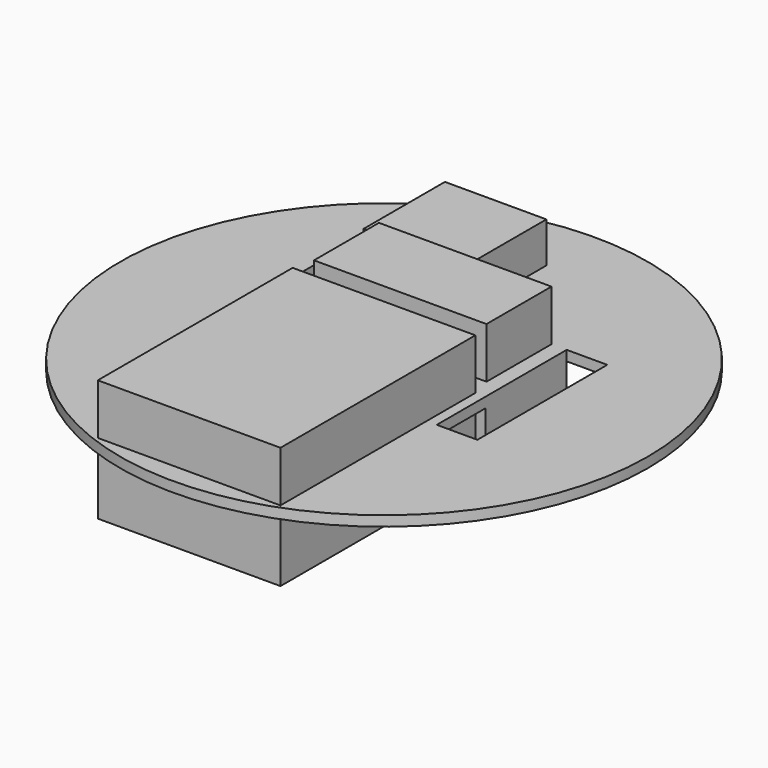
from build123d import *

# Parameters (mm, degrees)
F0_R      = 82.55
F2_DEPTH  = 3.175
F1_W      = 57.15
F1_H      = 76.2
F3_DEPTH  = 15.875
F4_DEPTH  = 22.225
F5_DEPTH  = 12.7
F6_DEPTH  = 12.7
F7_DEPTH  = 15.875
F9_DEPTH  = 12.7
F10_DEPTH = 25.4


with BuildPart() as f2:
    # F0 (on Top) → F2 (new body)
    with BuildSketch(Plane.XY):
        Circle(F0_R)
    extrude(amount=-F2_DEPTH)

    # F1 (on Top) → F3 (join)
    with BuildSketch(Plane.XY):
        with Locations((0, -38.1)):
            Rectangle(F1_W, F1_H)
    extrude(amount=F3_DEPTH)

    # F1 (on Top) → F4 (join)
    with BuildSketch(Plane.XY):
        with Locations((0, -38.1)):
            Rectangle(F1_W, F1_H)
    extrude(amount=-F4_DEPTH)

    # F1 (on Top) → F5 (join)
    with BuildSketch(Plane.XY):
        Polygon((-31.75, 76.2), (-31.75, 63.5), (0, 63.5), (31.75, 63.5), (31.75, 76.2), align=None)
    extrude(amount=-F5_DEPTH)

    # F1 (on Top) → F6 (join)
    with BuildSketch(Plane.XY):
        Polygon((0, 63.5), (-31.75, 63.5), (-31.75, 31.75), (-26.9875, 31.75), (0, 31.75), align=None)
    extrude(amount=F6_DEPTH)

    # F1 (on Top) → F7 (join)
    with BuildSketch(Plane.XY):
        Polygon((26.9875, 31.75), (0, 31.75), (-26.9875, 31.75), (-26.9875, 6.35), (26.9875, 6.35), align=None)
    extrude(amount=F7_DEPTH)

    # F8 (on face) → F9 (join)
    with BuildSketch(Plane(origin=(0, 0, -3.175), x_dir=(1, 0, 0), z_dir=(0, 0, -1))):
        Polygon((-28.575, 0), (-31.75, 0), (-31.75, -31.75), (31.75, -31.75), (31.75, 0), (28.575, 0), align=None)
    extrude(amount=F9_DEPTH)

    # F8 (on face) → F10 (cut)
    with BuildSketch(Plane(origin=(0, 0, -3.175), x_dir=(1, 0, 0), z_dir=(0, 0, -1))):
        Polygon((31.75, 0), (31.75, -31.75), (44.45, -31.75), (44.45, 19.05), (31.75, 19.05), align=None)
        Polygon((-31.75, -31.75), (-31.75, 0), (-31.75, 19.05), (-44.45, 19.05), (-44.45, -63.5), (-31.75, -63.5), align=None)
    extrude(amount=-F10_DEPTH, mode=Mode.SUBTRACT)


solid = f2.part
